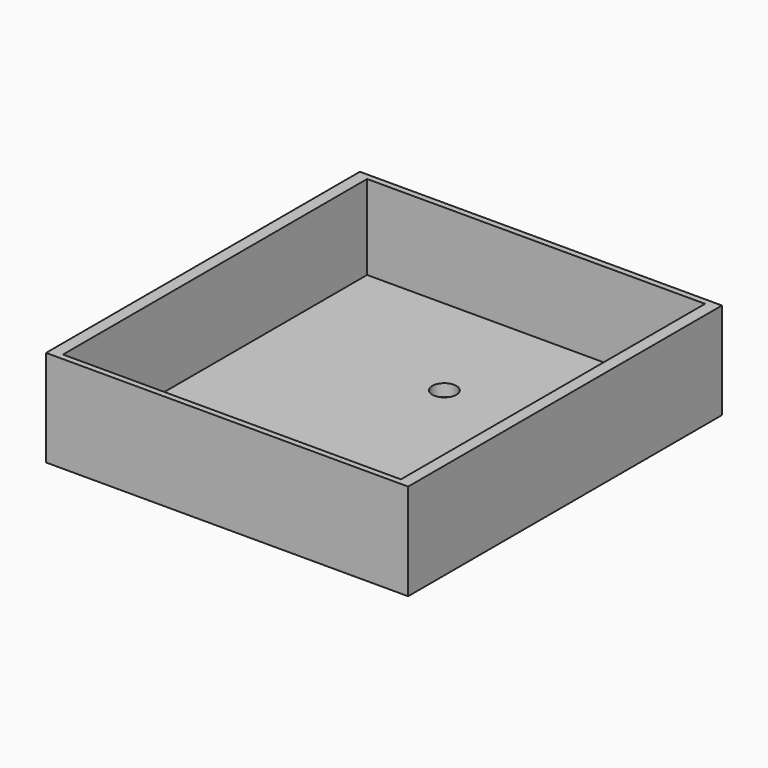
from build123d import *

# Parameters (mm, degrees)
F0_W     = 56
F0_H     = 63
F1_DEPTH = 2
F0_W_2   = 60
F0_H_2   = 65
F2_DEPTH = 16
F3_R     = 2
F4_DEPTH = 25


with BuildPart() as f1:
    # F0 (on Top) → F1 (new body)
    with BuildSketch(Plane.XY):
        with Locations((-30, -32.5)):
            Rectangle(F0_W, F0_H)
    extrude(amount=F1_DEPTH)

    # F0 (on Top) → F2 (join)
    with BuildSketch(Plane.XY):
        with Locations((-30, -32.5)):
            Rectangle(F0_W_2, F0_H_2)
        with Locations((-30, -32.5)):
            Rectangle(F0_W, F0_H, mode=Mode.SUBTRACT)
    extrude(amount=F2_DEPTH)

    # F3 (on face) → F4 (cut)
    with BuildSketch(Plane.XY.offset(2)):
        with Locations((-30, -20)):
            Circle(F3_R)
        with Locations((-30, -45)):
            Circle(F3_R)
    extrude(amount=-F4_DEPTH, mode=Mode.SUBTRACT)


solid = f1.part
